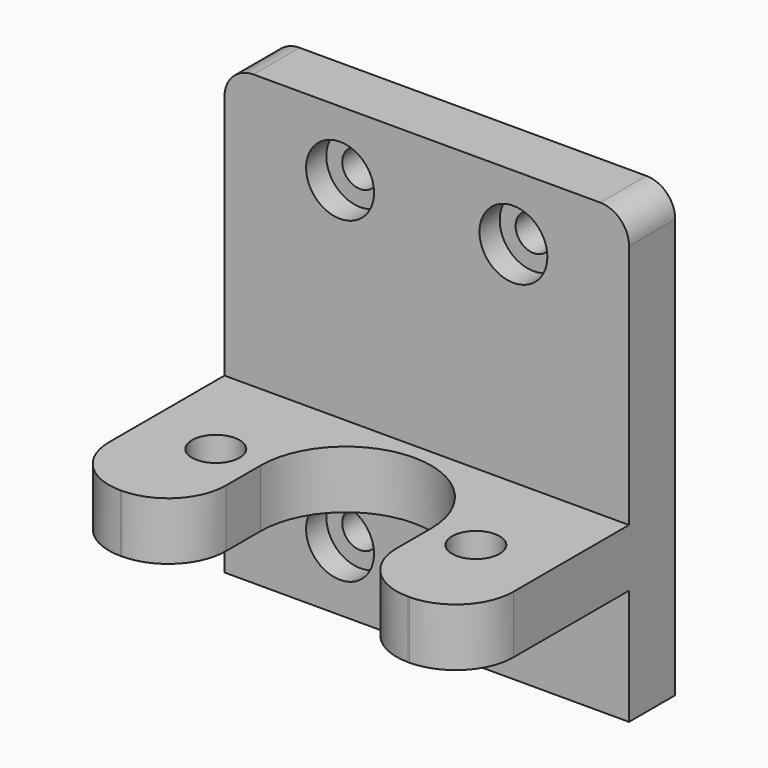
from build123d import *

# Parameters (mm, degrees)
F0_W      = 28
F0_H      = 31
F1_DEPTH  = 4
F3_D      = 2.5
F2_W      = 28
F2_H      = 4
F4_DEPTH  = 14
F6_DEPTH  = 25
F7_D      = 3.3
F8_R      = 4
F9_R      = 2
F2_R      = 2.35
F10_DEPTH = 1.75


with BuildPart() as f1:
    # F0 (on Front) → F1 (new body)
    with BuildSketch(Plane.XZ):
        with Locations((14, 15.5)):
            Rectangle(F0_W, F0_H)
    extrude(amount=F1_DEPTH)

    # F3 (through all)
    with Locations(Plane.XZ.offset(4)):
        with Locations((8, 26.5), (20, 26.5), (20, 4.5), (8, 4.5)):
            Hole(F3_D / 2)

    # F2 (on face) → F4 (join)
    with BuildSketch(Plane.XZ.offset(4)):
        with Locations((14, 10)):
            Rectangle(F2_W, F2_H)
    extrude(amount=F4_DEPTH)

    # F5 (on face) → F6 (cut)
    with BuildSketch(Plane(origin=(0, 0, 8), x_dir=(1, 0, 0), z_dir=(0, 0, -1))):
        with BuildLine():
            ThreePointArc((8.1, 11), (14, 16.9), (19.9, 11))
            Line((19.9, 11), (19.9, 18))
            Line((19.9, 18), (8.1, 18))
            Line((8.1, 18), (8.1, 11))
        make_face()
        with BuildLine():
            ThreePointArc((8.1, 11), (14, 5.1), (19.9, 11))
            ThreePointArc((19.9, 11), (14, 16.9), (8.1, 11))
        make_face()
    extrude(amount=-F6_DEPTH, mode=Mode.SUBTRACT)

    # F7 (through all)
    with Locations(Plane(origin=(0, 0, 8), x_dir=(1, 0, 0), z_dir=(0, 0, -1))):
        with Locations((5, 11), (23, 11)):
            Hole(F7_D / 2)

    # F8
    f8_edges = [f1.edges().sort_by_distance(p)[0] for p in [
        (28, -18, 10),
        (19.9, -18, 10),
        (8.1, -18, 10),
        (0, -18, 10),
    ]]
    fillet(f8_edges, radius=F8_R)

    # F9
    f9_edges = [f1.edges().sort_by_distance(p)[0] for p in [
        (28, -2, 31),
        (0, -2, 31),
    ]]
    fillet(f9_edges, radius=F9_R)

    # F2 (on face) → F10 (cut)
    with BuildSketch(Plane.XZ.offset(4)):
        with Locations((8, 26.5)):
            Circle(F2_R)
        with Locations((20, 26.5)):
            Circle(F2_R)
        with Locations((20, 4.5)):
            Circle(F2_R)
        with Locations((8, 4.5)):
            Circle(F2_R)
    extrude(amount=-F10_DEPTH, mode=Mode.SUBTRACT)


solid = f1.part
